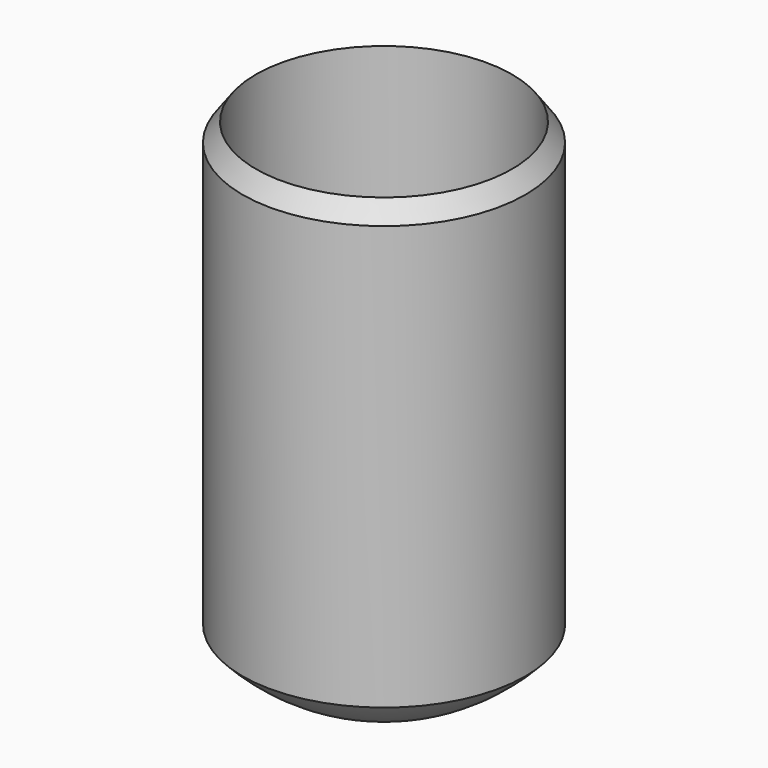
from build123d import *

# Parameters (mm, degrees)
F3_R     = 7.366
F3_R_2   = 5.3975
F4_DEPTH = 25.4


with BuildPart() as f1:
    # F0 (on Front) → F1 (revolve)
    with BuildSketch(Plane.XZ):
        with BuildLine():
            Line((-7.366, 8.4582), (-7.366, 0))
            ThreePointArc((-7.366, 0), (-5.208549, -5.208549), (0, -7.366))
            Line((0, -7.366), (0, -4.23386))
            Line((0, -4.23386), (0, 0.84614))
            Line((0, 0.84614), (-3.81, 0.84614))
            Line((-3.81, 0.84614), (-3.81, -4.2418))
            Line((-3.81, -4.2418), (-4.8895, -4.2418))
            Line((-4.8895, -4.2418), (-4.8895, 4.2418))
            Line((-4.8895, 4.2418), (-4.8895, 11.8618))
            Line((-4.8895, 11.8618), (-7.366, 8.4582))
        make_face()
    revolve(axis=Axis((0, 0, -1.69386), (0, 0, 1)))

    # F3 (on offset) → F4 (cut)
    with BuildSketch(Plane.XY.offset(12.7)):
        Circle(F3_R)
        Circle(F3_R_2, mode=Mode.SUBTRACT)
    extrude(amount=-F4_DEPTH, mode=Mode.SUBTRACT)


solid = f1.part
